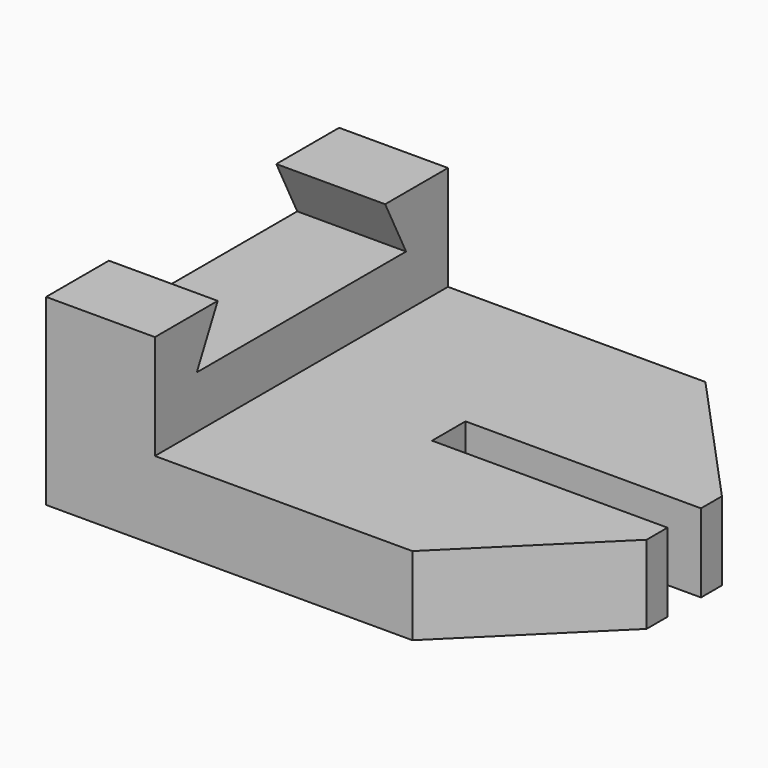
from build123d import *

# Parameters (mm, degrees)
F0_W     = 47.5
F0_H     = 35
F1_DEPTH = 17.5
F2_W     = 37.100266
F2_H     = 10
F3_DEPTH = 35.001
F5_DEPTH = 47.501
F6_W     = 22.5
F6_H     = 4
F7_DEPTH = 7.501


with BuildPart() as f1:
    # F0 (on Top) → F1 (new body)
    with BuildSketch(Plane.XY):
        with Locations((-6.113795, 9.902082)):
            Rectangle(F0_W, F0_H)
    extrude(amount=F1_DEPTH)

    # F2 (on face) → F3 (cut, through all)
    with BuildSketch(Plane.XZ.offset(7.597918)):
        with Locations((-0.913928, 12.5)):
            Rectangle(F2_W, F2_H)
    extrude(amount=-F3_DEPTH, mode=Mode.SUBTRACT)

    # F4 (on face) → F5 (cut, through all)
    with BuildSketch(Plane(origin=(-29.863795, 0, 0), x_dir=(0, -1, 0), z_dir=(-1, 0, 0))):
        Polygon((-19.902082, 17.5), (-22.402082, 12.5), (2.597918, 12.5), (0.097918, 17.5), align=None)
    extrude(amount=-F5_DEPTH, mode=Mode.SUBTRACT)

    # F6 (on face) → F7 (cut, through all)
    with BuildSketch(Plane.XY.offset(7.5)):
        Polygon((5.136205, -7.597918), (17.636205, -7.597918), (17.636205, 4.74937), align=None)
        Polygon((17.636205, 27.402082), (5.136205, 27.402082), (17.636205, 13.74937), align=None)
        with Locations((6.386205, 9.24937)):
            Rectangle(F6_W, F6_H)
    extrude(amount=-F7_DEPTH, mode=Mode.SUBTRACT)


solid = f1.part
